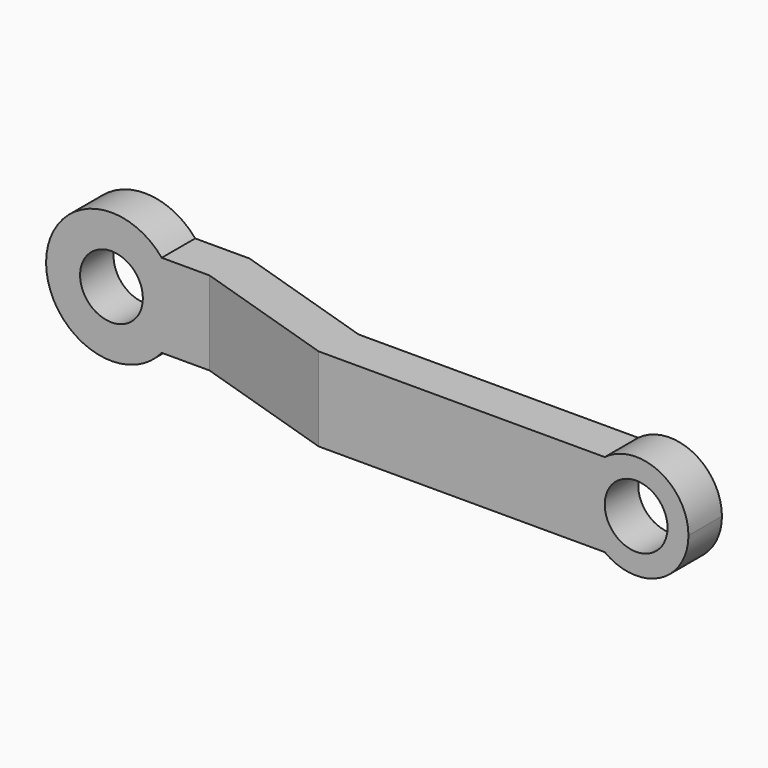
from build123d import *

# Parameters (mm, degrees)
F0_R     = 6
F1_DEPTH = 25
F3_DEPTH = 12.5


with BuildPart() as f1:
    # F0 (on Front) → F1 (new body)
    with BuildSketch(Plane.XZ):
        with BuildLine():
            ThreePointArc((9.604686, -8), (11.753905, -4.253905), (12.5, 0))
            ThreePointArc((12.5, 0), (11.753905, 4.253905), (9.604686, 8))
            ThreePointArc((9.604686, 8), (-12.5, 0), (9.604686, -8))
        make_face()
        Circle(F0_R, mode=Mode.SUBTRACT)
        with BuildLine():
            ThreePointArc((9.604686, 8), (11.753905, 4.253905), (12.5, 0))
            ThreePointArc((12.5, 0), (11.753905, -4.253905), (9.604686, -8))
            Line((9.604686, -8), (101.5, -8))
            ThreePointArc((101.5, -8), (97.5, 0), (101.5, 8))
            Line((101.5, 8), (9.604686, 8))
        make_face()
        with BuildLine():
            ThreePointArc((117.5, 0), (111.972136, 8.944272), (101.5, 8))
            ThreePointArc((101.5, 8), (97.5, 0), (101.5, -8))
            ThreePointArc((101.5, -8), (111.972136, -8.944272), (117.5, 0))
        make_face()
        with Locations((107.5, 0)):
            Circle(F0_R, mode=Mode.SUBTRACT)
    extrude(amount=F1_DEPTH)

    # F2 (on Top) → F3 (intersect, symmetric)
    with BuildSketch(Plane.XY):
        Polygon((20, 0), (-12.5, 0), (-12.5, -8), (18.748164, -8), (46.801778, -17), (117.5, -17), (117.5, -9), (48.053613, -9), align=None)
    extrude(amount=F3_DEPTH, both=True, mode=Mode.INTERSECT)


solid = f1.part
